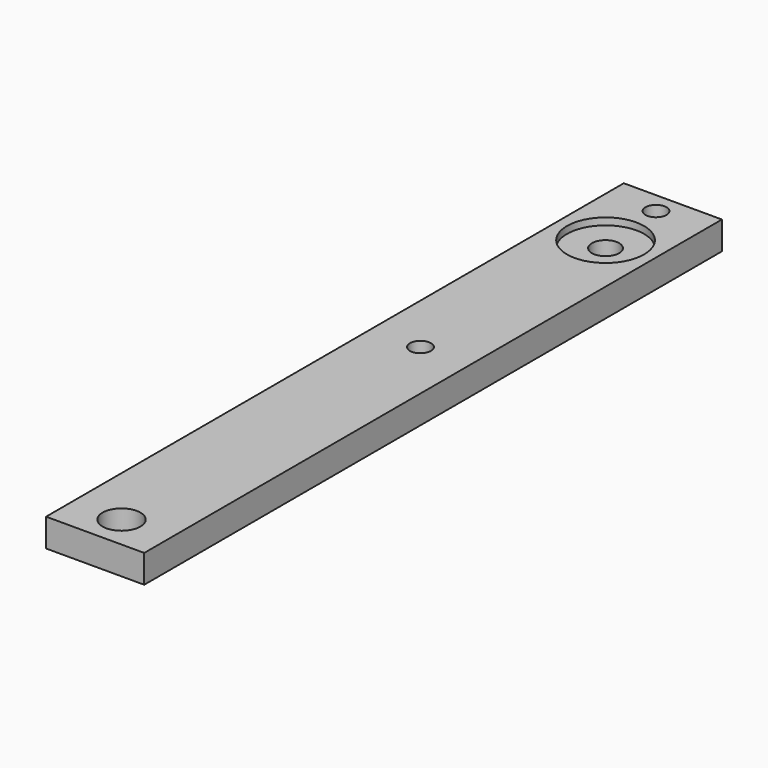
from build123d import *

# Parameters (mm, degrees)
CYLINDER004_R     = 1.35
CYLINDER004_DEPTH = 2
CYLINDER003_R     = 0.75
CYLINDER003_DEPTH = 2
CYLINDER002_R     = 0.75
CYLINDER002_DEPTH = 2
CYLINDER001_R     = 0.97
CYLINDER001_DEPTH = 2
CYLINDER_R        = 2.75
CYLINDER_DEPTH    = 0.5
BOX_W             = 7
BOX_H             = 51.5
BOX_DEPTH         = 2


with BuildPart() as cylinder004:
    # Cylinder004 → Cylinder004 (new body)
    with BuildSketch(Plane(origin=(3.5, 2.35, 0), x_dir=(1, 0, 0), z_dir=(0, 0, 1))):
        Circle(CYLINDER004_R)
    extrude(amount=CYLINDER004_DEPTH)


with BuildPart() as cylinder003:
    # Cylinder003 → Cylinder003 (new body)
    with BuildSketch(Plane(origin=(3.5, 29, 0), x_dir=(1, 0, 0), z_dir=(0, 0, 1))):
        Circle(CYLINDER003_R)
    extrude(amount=CYLINDER003_DEPTH)


with BuildPart() as cylinder002:
    # Cylinder002 → Cylinder002 (new body)
    with BuildSketch(Plane(origin=(3.5, 50, 0), x_dir=(1, 0, 0), z_dir=(0, 0, 1))):
        Circle(CYLINDER002_R)
    extrude(amount=CYLINDER002_DEPTH)


with BuildPart() as cylinder001:
    # Cylinder001 → Cylinder001 (new body)
    with BuildSketch(Plane(origin=(3.5, 45.5, 0), x_dir=(1, 0, 0), z_dir=(0, 0, 1))):
        Circle(CYLINDER001_R)
    extrude(amount=CYLINDER001_DEPTH)


with BuildPart() as cylinder:
    # Cylinder → Cylinder (new body)
    with BuildSketch(Plane(origin=(3.5, 45.5, 1.5), x_dir=(1, 0, 0), z_dir=(0, 0, 1))):
        Circle(CYLINDER_R)
    extrude(amount=CYLINDER_DEPTH)


with BuildPart() as cut004:
    # Box → Box (new body)
    with BuildSketch(Plane.XY):
        with Locations((3.5, 25.75)):
            Rectangle(BOX_W, BOX_H)
    extrude(amount=BOX_DEPTH)

    # Cut: cut Cylinder
    add(cylinder.part, mode=Mode.SUBTRACT)

    # Cut001: cut Cylinder001
    add(cylinder001.part, mode=Mode.SUBTRACT)

    # Cut002: cut Cylinder002
    add(cylinder002.part, mode=Mode.SUBTRACT)

    # Cut003: cut Cylinder003
    add(cylinder003.part, mode=Mode.SUBTRACT)

    # Cut004: cut Cylinder004
    add(cylinder004.part, mode=Mode.SUBTRACT)


solid = cut004.part
